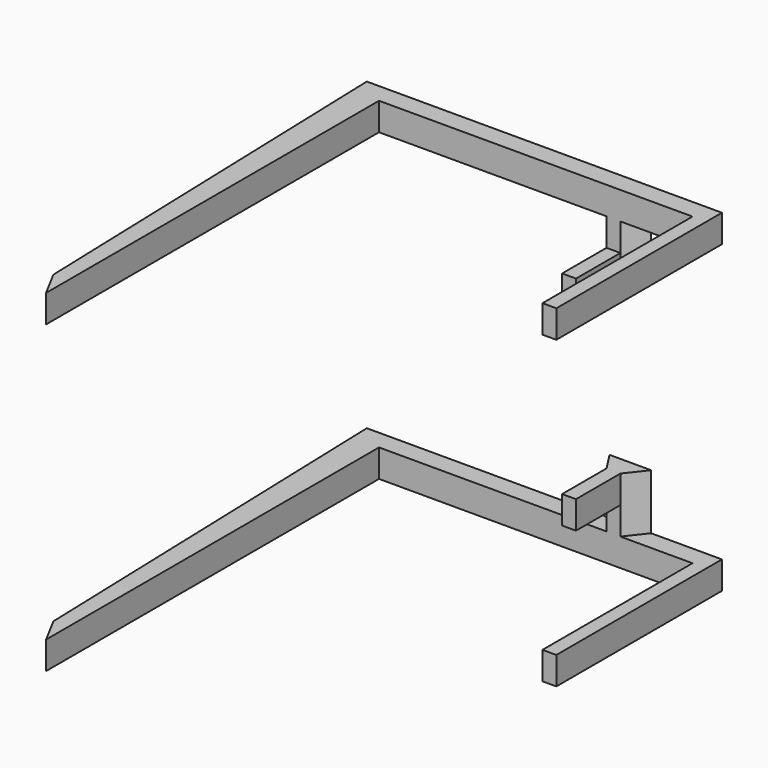
from build123d import *

# Parameters (mm, degrees)
F1_DEPTH = 10
F3_DEPTH = 20
F4_W     = 5
F4_H     = 10
F5_DEPTH = 20


with BuildPart() as f1:
    # F0 (on Top) → F1 (new body)
    with BuildSketch(Plane.XY):
        Polygon((-102.486782, 66.049256), (-97.850613, -80.950744), (-92.486782, -90.950744), (-92.486782, 59.049256), (-10.486782, 59.049256), (-5.486782, 59.049256), (20.513218, 59.049256), (20.513218, -8.55103), (25.513218, -8.55103), (25.513218, 66.049256), (0, 66.049256), (-16.308879, 66.049256), align=None)
        Polygon((-102.486782, 66.049256), (-97.850613, -80.950744), (-92.486782, -90.950744), (-92.486782, 59.049256), (-10.486782, 59.049256), (-5.486782, 59.049256), (20.513218, 59.049256), (20.513218, -8.55103), (25.513218, -8.55103), (25.513218, 66.049256), (0, 66.049256), (-16.308879, 66.049256), align=None)
        Polygon((-102.486782, 66.049256), (-97.850613, -80.950744), (-92.486782, -90.950744), (-92.486782, 59.049256), (-10.486782, 59.049256), (-5.486782, 59.049256), (20.513218, 59.049256), (20.513218, -8.55103), (25.513218, -8.55103), (25.513218, 66.049256), (0, 66.049256), (-16.308879, 66.049256), align=None)
    extrude(amount=-F1_DEPTH)

    # F2 (on face) → F3 (join)
    with BuildSketch(Plane.XY):
        Polygon((-10.486782, 59.049256), (-5.486782, 59.049256), (0, 66.049256), (-15, 66.049256), align=None)
    extrude(amount=F3_DEPTH)

    # F4 (on face) → F5 (join)
    with BuildSketch(Plane.XZ.offset(-59.049256)):
        with Locations((-7.986782, 15)):
            Rectangle(F4_W, F4_H)
    extrude(amount=F5_DEPTH)


with BuildPart() as f6_1:
    # F6: copy of F1
    add(f1.part.moved(Location((0, 0, -100))))


with BuildPart() as f7_1:
    # F7: instance of F6_1
    add(f6_1.part.mirror(Plane.XY))


solid = Compound([f1.part, f7_1.part])
